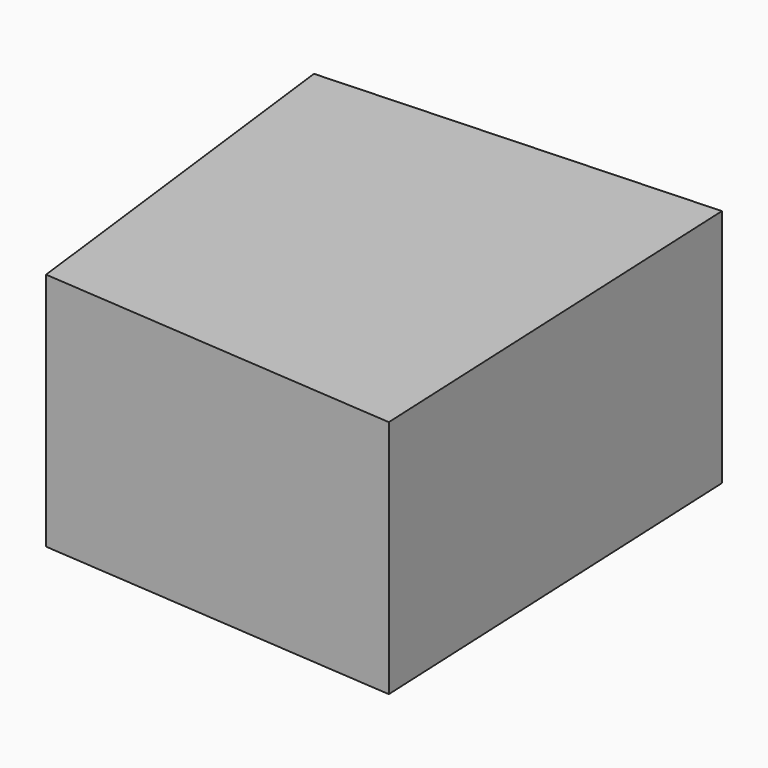
from build123d import *

# Parameters (mm, degrees)
F1_DEPTH = 22.352
F2_DEPTH = 12.192


with BuildPart() as f1:
    # F0 (on Top) → F1 (new body)
    with BuildSketch(Plane.XY):
        Polygon((-38.420607, 2.401138), (-31.385474, -54.696176), (21.237433, -58.680821), (18.369945, 4.959973), align=None)
        Polygon((4.363194, -40.964877), (-23.372287, -42.214565), (-25.097516, -10.449908), (2.931366, -9.187), align=None, mode=Mode.SUBTRACT)
        Polygon((-25.097516, -10.449908), (-23.372287, -42.214565), (4.363194, -40.964877), (2.931366, -9.187), align=None)
    extrude(amount=F1_DEPTH)

    # F1_face (on face) → F2 (join)
    with BuildSketch(Plane(origin=(-7.086416, -26.077405, 22.352), x_dir=(1, 0, 0), z_dir=(0, 0, 1))):
        Polygon((25.456361, 31.037378), (-31.334191, 28.478544), (-24.299058, -28.618771), (28.323849, -32.603416), align=None)
    extrude(amount=F2_DEPTH)


solid = f1.part
